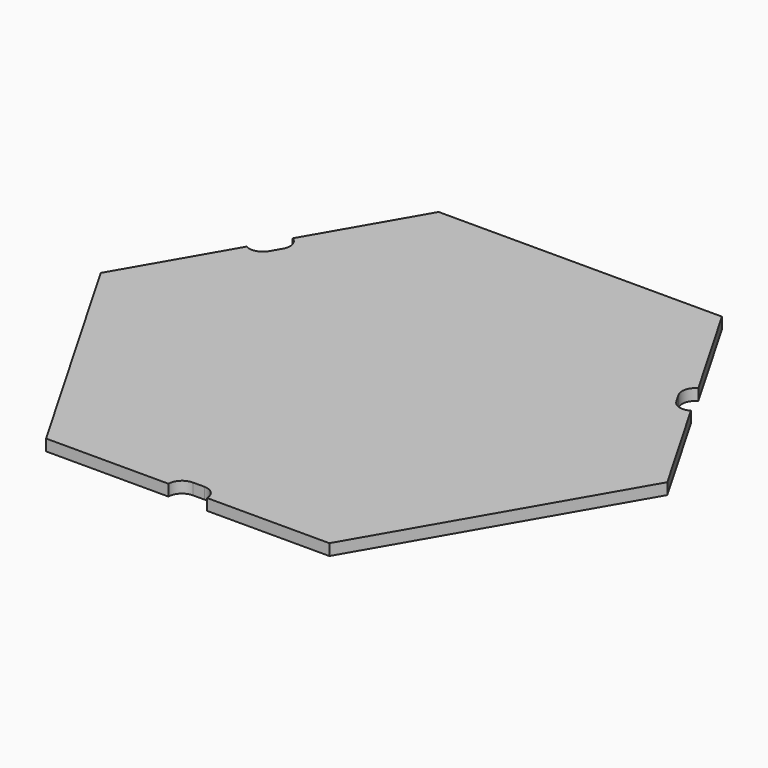
from build123d import *

# Parameters (mm, degrees)
F1_DEPTH = 0.5
F3_DEPTH = 0.501


with BuildPart() as f1:
    # F0 (on Top) → F1 (new body)
    with BuildSketch(Plane.XY):
        Polygon((6.25, -10.8253175473), (12.5, 0), (6.25, 10.8253175473), (-6.25, 10.8253175473), (-12.5, 0), (-6.25, -10.8253175473), align=None)
    extrude(amount=F1_DEPTH)

    # F2 (on face) → F3 (cut, through all)
    with BuildSketch(Plane.XY.offset(0.5)):
        with BuildLine():
            ThreePointArc((0.85, -10.8253175473), (0.6742640687, -10.4010534786), (0.25, -10.2253175473))
            Line((0.25, -10.2253175473), (-0.25, -10.2253175473))
            ThreePointArc((-0.25, -10.2253175473), (-0.6742640687, -10.4010534786), (-0.85, -10.8253175473))
            Line((-0.85, -10.8253175473), (0.85, -10.8253175473))
        make_face()
        with BuildLine():
            Line((8.7303847577, 5.3291651246), (8.9803847577, 4.8961524227))
            ThreePointArc((8.9803847577, 4.8961524227), (9.3447085729, 4.6165969269), (9.8, 4.6765371804))
            Line((9.8, 4.6765371804), (8.95, 6.1487803669))
            ThreePointArc((8.95, 6.1487803669), (8.6704445042, 5.7844565517), (8.7303847577, 5.3291651246))
        make_face()
        with BuildLine():
            Line((-8.9803847577, 4.8961524227), (-8.7303847577, 5.3291651246))
            ThreePointArc((-8.7303847577, 5.3291651246), (-8.6704445042, 5.7844565517), (-8.95, 6.1487803669))
            Line((-8.95, 6.1487803669), (-9.8, 4.6765371804))
            ThreePointArc((-9.8, 4.6765371804), (-9.3447085729, 4.6165969269), (-8.9803847577, 4.8961524227))
        make_face()
    extrude(amount=-F3_DEPTH, mode=Mode.SUBTRACT)


solid = f1.part
